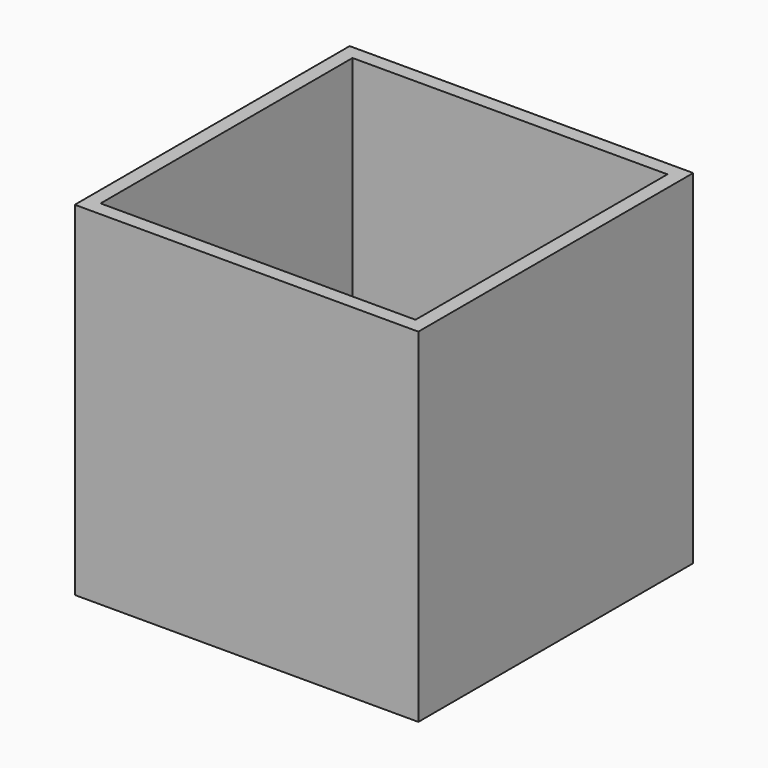
from build123d import *

# Parameters (mm, degrees)
F0_W     = 152.4
F0_H     = 152.4
F2_DEPTH = 152.4
F1_W     = 152.4
F1_H     = 152.4
F3_W     = 139.7
F3_H     = 139.7
F4_DEPTH = 139.7


with BuildPart() as f2:
    # F0 (on Top) → F2 (new body)
    with BuildSketch(Plane.XY):
        Rectangle(F0_W, F0_H)
    extrude(amount=F2_DEPTH)


with BuildPart() as f2b:
    # F1 (on face) → F2, piece 2 (new body)
    with BuildSketch(Plane.XY):
        Rectangle(F1_W, F1_H)
    extrude(amount=F2_DEPTH)


with BuildPart() as f4_tool:
    # F3 (on face) → F4 (new body)
    with BuildSketch(Plane.XY.offset(152.4)):
        Rectangle(F3_W, F3_H)
    extrude(amount=-F4_DEPTH)


with BuildPart() as f2_1:
    add(f2.part)

    # F4: cut by f4_tool
    add(f4_tool.part, mode=Mode.SUBTRACT)


with BuildPart() as f2b_1:
    add(f2b.part)

    # F4: cut by f4_tool
    add(f4_tool.part, mode=Mode.SUBTRACT)


solid = Compound([f2_1.part, f2b_1.part])
